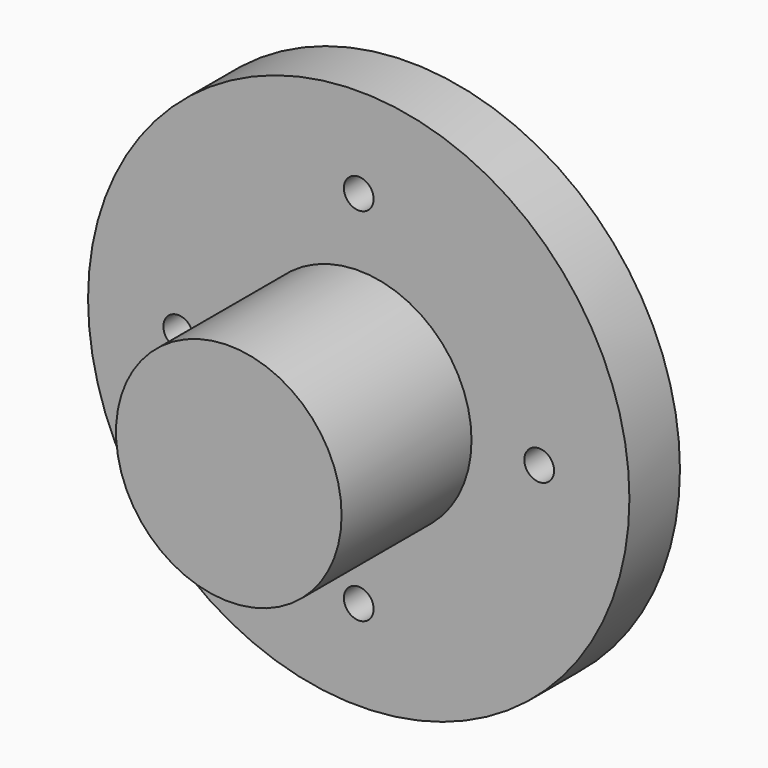
from build123d import *

# Parameters (mm, degrees)
F0_R     = 30
F1_DEPTH = 7
F3_D     = 3.3
F4_R     = 12.5
F5_DEPTH = 18
F6_R     = 4
F7_DEPTH = 20
F8_R     = 42.262069542
F9_DEPTH = 25


with BuildPart() as f1:
    # F0 (on Front) → F1 (new body)
    with BuildSketch(Plane.XZ):
        Circle(F0_R)
    extrude(amount=F1_DEPTH)

    # F3 (through all)
    with Locations(Plane.XZ.offset(7)):
        with Locations((0, 20), (20, 0), (0, -20), (-20, 0)):
            Hole(F3_D / 2)

    # F4 (on face) → F5 (join)
    with BuildSketch(Plane.XZ.offset(7)):
        Circle(F4_R)
    extrude(amount=F5_DEPTH)

    # F6 (on face) → F7 (cut)
    with BuildSketch(Plane(origin=(0, 0, 0), x_dir=(-1, 0, 0), z_dir=(0, 1, 0))):
        Circle(F6_R)
    extrude(amount=-F7_DEPTH, mode=Mode.SUBTRACT)


with BuildPart() as f9:
    # F8 (on Front) → F9 (new body)
    with BuildSketch(Plane.XZ):
        Circle(F8_R)
    extrude(amount=F9_DEPTH)


solid = f1.part
